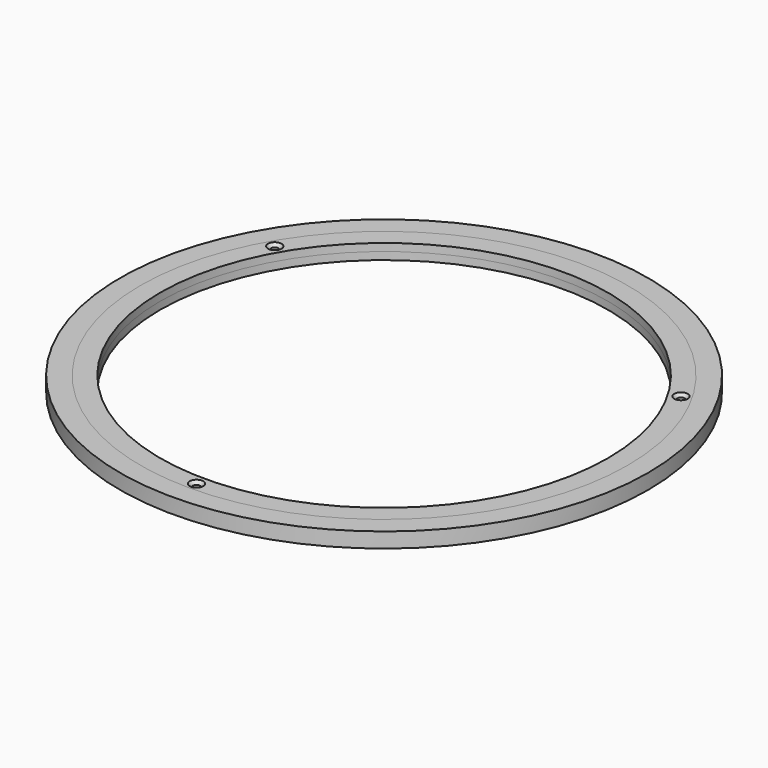
from build123d import *

# Parameters (mm, degrees)
F0_R           = 175
F0_R_2         = 161.5
F1_DEPTH       = 5
F1_DEPTH_BACK  = 5
F0_R_3         = 148.5
F2_DEPTH       = 5
F2_DEPTH_BACK  = 5
F4_D           = 5
F4_CSINK_D     = 9
F4_CSINK_ANGLE = 90


with BuildPart() as f1:
    # F0 (on Top) → F1 (new body, two sides)
    with BuildSketch(Plane.XY) as f1_sk:
        Circle(F0_R)
        Circle(F0_R_2, mode=Mode.SUBTRACT)
    extrude(amount=F1_DEPTH)
    extrude(f1_sk.sketch, amount=-F1_DEPTH_BACK)


with BuildPart() as f2:
    # F0 (on Top) → F2 (new body, two sides)
    with BuildSketch(Plane.XY) as f2_sk:
        Circle(F0_R_2)
        Circle(F0_R_3, mode=Mode.SUBTRACT)
    extrude(amount=F2_DEPTH)
    extrude(f2_sk.sketch, amount=-F2_DEPTH_BACK)

    # F4 (through all)
    with Locations(Plane.XY.offset(5)):
        with Locations((-134.66695, 77.75), (134.66695, 77.75), (0, -155.5)):
            CounterSinkHole(F4_D / 2, F4_CSINK_D / 2, counter_sink_angle=F4_CSINK_ANGLE)


solid = Compound([f1.part, f2.part])
